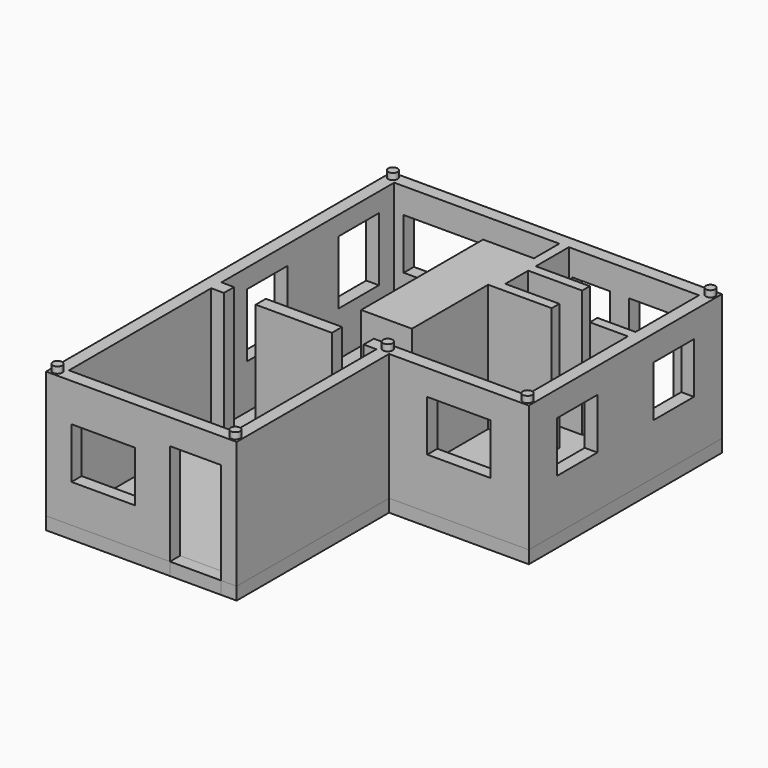
from build123d import *

# Parameters (mm, degrees)
F0_W      = 25.4
F0_H      = 25.4
F0_W_2    = 76.2
F0_H_2    = 19.05
F1_DEPTH  = 254
F0_W_3    = 152.4
F2_DEPTH  = 25.4
F3_R      = 9.525
F4_DEPTH  = 12.7
F5_W      = 127
F5_H      = 101.6
F6_DEPTH  = 25.4
F7_W      = 101.6
F7_H      = 203.2
F8_DEPTH  = 25.4
F10_DEPTH = 25.4
F12_DEPTH = 25.4
F13_DEPTH = 25.4
F15_DEPTH = 25.4
F16_DEPTH = 25.4
F17_W     = 101.6
F17_H     = 203.2
F17_W_2   = 177.8
F17_H_2   = 101.6
F18_DEPTH = 25.4
F19_DEPTH = 25.4
F21_DEPTH = 25.4
F22_DEPTH = 25.4
F23_DEPTH = 25.4
F24_DEPTH = 101.6
F25_DEPTH = 101.6


with BuildPart() as f1:
    # F0 (on Top) → F1 (new body)
    with BuildSketch(Plane.XY):
        Polygon((355.6, -25.4), (355.6, 0), (355.6, 355.6), (635, 355.6), (635, 838.2), (-25.4, 838.2), (-25.4, -25.4), align=None)
        Polygon((330.2, 0), (0, 0), (0, 355.6), (0, 381), (0, 812.8), (330.2, 812.8), (349.25, 812.8), (508, 812.8), (609.6, 812.8), (609.6, 654.05), (609.6, 635), (609.6, 381), (330.2, 381), (330.2, 355.6), align=None, mode=Mode.SUBTRACT)
        with Locations((12.7, 368.3)):
            Rectangle(F0_W, F0_H)
        with Locations((317.5, 368.3)):
            Rectangle(F0_W, F0_H)
        Polygon((330.2, 711.2), (330.2, 749.3), (228.6, 749.3), (228.6, 444.5), (330.2, 444.5), (330.2, 635), (330.2, 672.4181091309), align=None)
        Polygon((349.25, 812.8), (330.2, 812.8), (330.2, 749.3), (330.2, 711.2), (349.25, 711.2), (457.1951833257, 711.2), (457.1951833257, 730.25), (349.25, 730.25), align=None)
        Polygon((349.25, 711.2), (330.2, 711.2), (330.2, 672.4181091309), (330.2, 635), (457.1951833257, 635), (457.1951833257, 654.05), (349.25, 654.05), align=None)
        with Locations((571.5, 644.525)):
            Rectangle(F0_W_2, F0_H_2)
    extrude(amount=F1_DEPTH)

    # F3 (on face) → F4 (join)
    with BuildSketch(Plane.XY.offset(254)):
        with Locations((-12.7, -12.7)):
            Circle(F3_R)
        with Locations((342.9, -12.7)):
            Circle(F3_R)
        with Locations((342.9, 368.3)):
            Circle(F3_R)
        with Locations((622.3, 368.3)):
            Circle(F3_R)
        with Locations((622.3, 825.5)):
            Circle(F3_R)
        with Locations((-12.7, 825.5)):
            Circle(F3_R)
    extrude(amount=F4_DEPTH)

    # F5 (on face) → F6 (cut)
    with BuildSketch(Plane.XZ.offset(25.4)):
        with Locations((88.9, 127)):
            Rectangle(F5_W, F5_H)
    extrude(amount=-F6_DEPTH, mode=Mode.SUBTRACT)

    # F7 (on face) → F8 (cut)
    with BuildSketch(Plane.XZ.offset(25.4)):
        with Locations((273.05, 101.6)):
            Rectangle(F7_W, F7_H)
    extrude(amount=-F8_DEPTH, mode=Mode.SUBTRACT)

    # F9 (on face) → F10 (cut)
    with BuildSketch(Plane.XZ.offset(-355.6)):
        Polygon((431.8, 101.6), (495.3, 101.6), (558.8, 101.6), (558.8, 203.2), (431.8, 203.2), align=None)
    extrude(amount=-F10_DEPTH, mode=Mode.SUBTRACT)

    # F11 (on face) → F12 (cut)
    with BuildSketch(Plane.YZ.offset(635)):
        Polygon((527.05, 203.2), (476.25, 203.2), (425.45, 203.2), (425.45, 101.6), (527.05, 101.6), align=None)
        Polygon((768.35, 203.2), (717.55, 203.2), (666.75, 203.2), (666.75, 101.6), (768.35, 101.6), align=None)
    extrude(amount=-F12_DEPTH, mode=Mode.SUBTRACT)

    # F11 (on face) → F13 (cut)
    with BuildSketch(Plane.YZ.offset(635)):
        Polygon((527.05, 203.2), (476.25, 203.2), (425.45, 203.2), (425.45, 101.6), (527.05, 101.6), align=None)
        Polygon((768.35, 203.2), (717.55, 203.2), (666.75, 203.2), (666.75, 101.6), (768.35, 101.6), align=None)
    extrude(amount=-F13_DEPTH, mode=Mode.SUBTRACT)

    # F14 (on face) → F15 (cut)
    with BuildSketch(Plane(origin=(-25.4, 0, 0), x_dir=(0, -1, 0), z_dir=(-1, 0, 0))):
        Polygon((-673.1, 215.9), (-723.9, 215.9), (-774.7, 215.9), (-774.7, 88.9), (-673.1, 88.9), align=None)
        Polygon((-546.1, 215.9), (-546.1, 88.9), (-444.5, 88.9), (-444.5, 215.9), (-495.3, 215.9), align=None)
    extrude(amount=-F15_DEPTH, mode=Mode.SUBTRACT)

    # F14 (on face) → F16 (cut)
    with BuildSketch(Plane(origin=(-25.4, 0, 0), x_dir=(0, -1, 0), z_dir=(-1, 0, 0))):
        Polygon((-673.1, 215.9), (-723.9, 215.9), (-774.7, 215.9), (-774.7, 88.9), (-673.1, 88.9), align=None)
        Polygon((-546.1, 215.9), (-546.1, 88.9), (-444.5, 88.9), (-444.5, 215.9), (-495.3, 215.9), align=None)
    extrude(amount=-F16_DEPTH, mode=Mode.SUBTRACT)

    # F17 (on face) → F18 (cut)
    with BuildSketch(Plane(origin=(0, 838.2, 0), x_dir=(-1, 0, 0), z_dir=(0, 1, 0))):
        with Locations((-273.05, 101.6)):
            Rectangle(F17_W, F17_H)
        with Locations((-107.95, 152.4)):
            Rectangle(F17_W_2, F17_H_2)
    extrude(amount=-F18_DEPTH, mode=Mode.SUBTRACT)

    # F17 (on face) → F19 (cut)
    with BuildSketch(Plane(origin=(0, 838.2, 0), x_dir=(-1, 0, 0), z_dir=(0, 1, 0))):
        with Locations((-273.05, 101.6)):
            Rectangle(F17_W, F17_H)
        with Locations((-107.95, 152.4)):
            Rectangle(F17_W_2, F17_H_2)
    extrude(amount=-F19_DEPTH, mode=Mode.SUBTRACT)

    # F20 (on face) → F21 (cut)
    with BuildSketch(Plane(origin=(0, 838.2, 0), x_dir=(-1, 0, 0), z_dir=(0, 1, 0))):
        Polygon((-431.8, 203.2), (-431.8, 114.3), (-355.6, 114.3), (-355.6, 139.7), (-355.6, 203.2), align=None)
    extrude(amount=-F21_DEPTH, mode=Mode.SUBTRACT)

    # F20 (on face) → F22 (cut)
    with BuildSketch(Plane(origin=(0, 838.2, 0), x_dir=(-1, 0, 0), z_dir=(0, 1, 0))):
        Polygon((-355.6, 114.3), (-355.6, 139.7), (-355.6, 203.2), (-431.8, 203.2), (-431.8, 114.3), align=None)
        Polygon((-469.9, 0), (-469.9, 114.3), (-469.9, 203.2), (-558.8, 203.2), (-558.8, 0), align=None)
    extrude(amount=-F22_DEPTH, mode=Mode.SUBTRACT)


with BuildPart() as f1b:
    # F0 (on Top) → F1, piece 2 (new body)
    with BuildSketch(Plane.XY):
        with Locations((165.1, 368.3)):
            Rectangle(F0_W_3, F0_H)
    extrude(amount=F1_DEPTH)


with BuildPart() as f2:
    # F0 (on Top) → F2 (new body)
    with BuildSketch(Plane.XY):
        Polygon((0, 355.6), (0, 0), (330.2, 0), (330.2, 355.6), (304.8, 355.6), (304.8, 381), (330.2, 381), (609.6, 381), (609.6, 635), (533.4, 635), (533.4, 654.05), (609.6, 654.05), (609.6, 812.8), (508, 812.8), (349.25, 812.8), (349.25, 730.25), (457.1951833257, 730.25), (457.1951833257, 711.2), (349.25, 711.2), (349.25, 654.05), (457.1951833257, 654.05), (457.1951833257, 635), (330.2, 635), (330.2, 444.5), (228.6, 444.5), (228.6, 749.3), (330.2, 749.3), (330.2, 812.8), (0, 812.8), (0, 381), (25.4, 381), (25.4, 355.6), align=None)
        with Locations((165.1, 368.3)):
            Rectangle(F0_W_3, F0_H, mode=Mode.SUBTRACT)
    extrude(amount=-F2_DEPTH)


with BuildPart() as f23:
    # F23 (new): a face of the model
    f23_faces = [f1.part.faces().sort_by_distance(p)[0] for p in [
        (306.6509224032, 635.5643745872, 0),
    ]]
    extrude(f23_faces, amount=F23_DEPTH)


with BuildPart() as f23b:
    # F23#2 (new): a face of the model
    f23_2_faces = [f1.part.faces().sort_by_distance(p)[0] for p in [
        (625.7542604406, 596.9, 0),
    ]]
    extrude(f23_2_faces, amount=F23_DEPTH)


with BuildPart() as f23c:
    # F23#3 (new): a face of the model
    f23_3_faces = [f1.part.faces().sort_by_distance(p)[0] for p in [
        (98.425, 829.2159280808, 0),
    ]]
    extrude(f23_3_faces, amount=F23_DEPTH)


with BuildPart() as f24:
    # F24 (new): a face of the model
    f24_faces = [f23c.part.faces().sort_by_distance(p)[0] for p in [
        (222.25, -12.7, -12.7),
    ]]
    extrude(f24_faces, amount=F24_DEPTH)


with BuildPart() as f25:
    # F25 (new): a face of the model
    f25_faces = [f23c.part.faces().sort_by_distance(p)[0] for p in [
        (222.25, 825.5, -12.7),
    ]]
    extrude(f25_faces, amount=F25_DEPTH)


with BuildPart() as f25b:
    # F25#2 (new): a face of the model
    f25_2_faces = [f23.part.faces().sort_by_distance(p)[0] for p in [
        (469.9, 825.5, -12.7),
    ]]
    extrude(f25_2_faces, amount=F25_DEPTH)


solid = Compound([f1.part, f1b.part, f2.part, f23.part, f23b.part, f23c.part, f24.part, f25.part, f25b.part])
